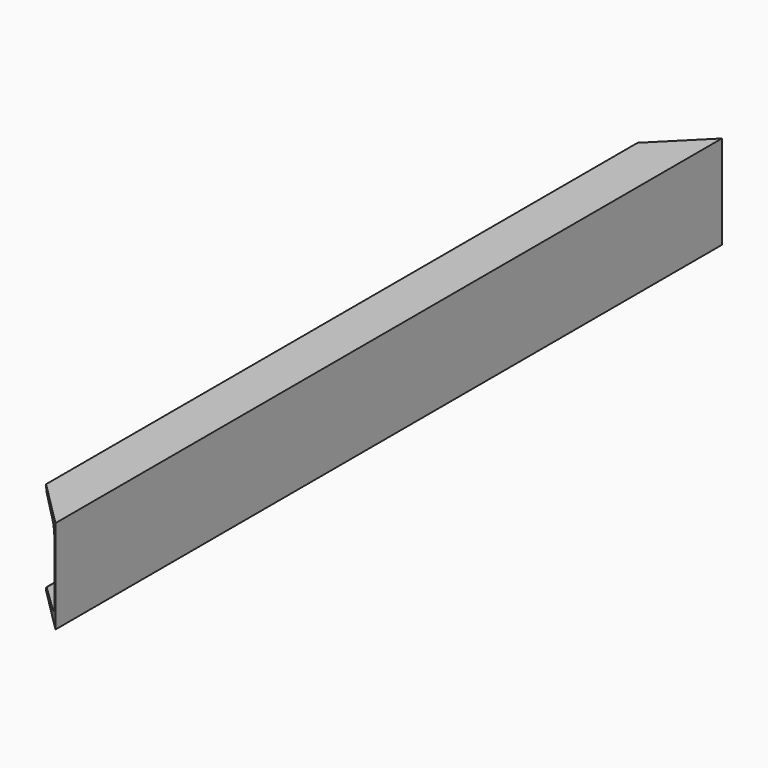
from build123d import *

# Parameters (mm, degrees)
EXTRUDE009_DEPTH = 150
EXTRUDE008_DEPTH = 667


with BuildPart() as extrude009:
    # Sketch010 (on Face2 of Extrude008) → Extrude009 (new body)
    with BuildSketch(Plane.XY.offset(4500)):
        Polygon((500, 667), (575, 592), (575, 667), align=None)
    extrude(amount=-EXTRUDE009_DEPTH)


with BuildPart() as compound008:
    # Mirror008: instance of Extrude009
    add(extrude009.part.mirror(Plane(origin=(300, 0, 0), x_dir=(1, 0, 0), z_dir=(0, 1, 0))))

    # Compound008: union Extrude009
    add(extrude009.part)


with BuildPart() as cut002:
    # ChannelSteel002 → Extrude008 (new body, symmetric)
    with BuildSketch(Plane(origin=(521.664812, 0, 4425), x_dir=(1, 0, 0), z_dir=(0, 1, 0))):
        with BuildLine():
            Line((-21.664812, 75), (-21.664812, -75))
            Line((-21.664812, -75), (53.335188, -75))
            Line((53.335188, -75), (53.335188, -73.913145))
            ThreePointArc((53.335188, -73.913145), (51.364768, -68.846219), (46.488856, -66.441685))
            Line((46.488856, -66.441685), (3.642524, -62.693117))
            ThreePointArc((3.642524, -62.693117), (-7.792334, -58.760281), (-12.664812, -47.693117))
            Line((-12.664812, -47.693117), (-12.664812, 47.693117))
            ThreePointArc((-12.664812, 47.693117), (-7.792334, 58.760281), (3.642524, 62.693117))
            Line((3.642524, 62.693117), (46.488856, 66.441685))
            ThreePointArc((46.488856, 66.441685), (51.364768, 68.846219), (53.335188, 73.913145))
            Line((53.335188, 73.913145), (53.335188, 75))
            Line((53.335188, 75), (-21.664812, 75))
        make_face()
    extrude(amount=EXTRUDE008_DEPTH, both=True)

    # Cut002: cut Compound008
    add(compound008.part, mode=Mode.SUBTRACT)


with BuildPart() as cut002_mirrored:
    # Mirror009: instance of Cut002
    add(cut002.part.mirror(Plane(origin=(0, -600, 0), x_dir=(0, -1, 0), z_dir=(1, 0, 0))))


solid = cut002_mirrored.part
